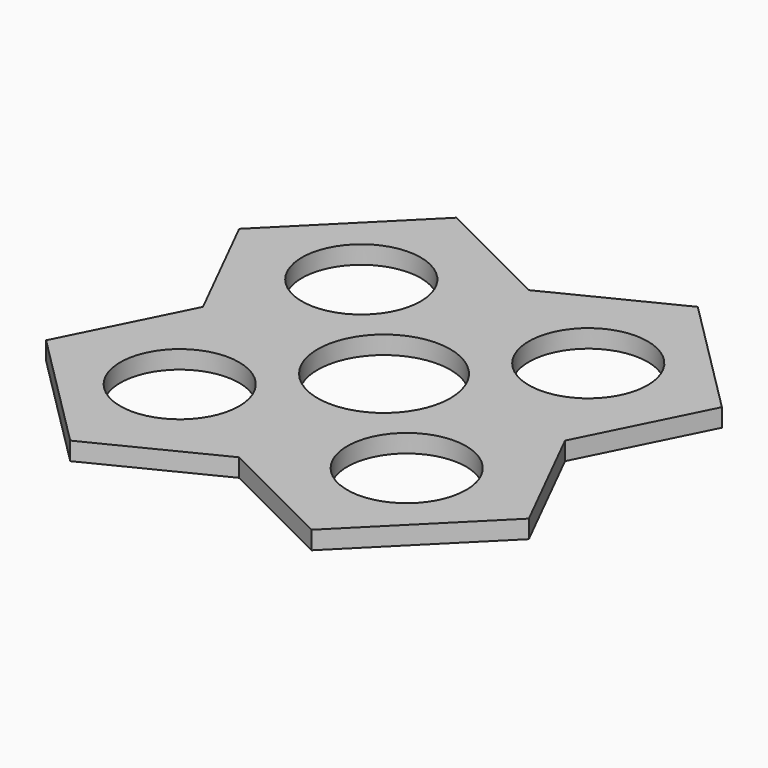
from build123d import *

# Parameters (mm, degrees)
F0_R     = 9.85
F0_R_2   = 11
F1_DEPTH = 3


with BuildPart() as f1:
    # F0 (on Top) → F1 (new body)
    with BuildSketch(Plane.XY):
        Polygon((0, 30), (-20, 40), (-40, 20), (-30, 0), (-40, -20), (-20, -40), (0, -30), (20, -40), (40, -20), (30, 0), (40, 20), (20, 40), align=None)
        with Locations((-18.80673, -18.80673)):
            Circle(F0_R, mode=Mode.SUBTRACT)
        with Locations((18.80673, -18.80673)):
            Circle(F0_R, mode=Mode.SUBTRACT)
        with Locations((-18.80673, 18.80673)):
            Circle(F0_R, mode=Mode.SUBTRACT)
        Circle(F0_R_2, mode=Mode.SUBTRACT)
        with Locations((18.80673, 18.80673)):
            Circle(F0_R, mode=Mode.SUBTRACT)
    extrude(amount=F1_DEPTH)


solid = f1.part
